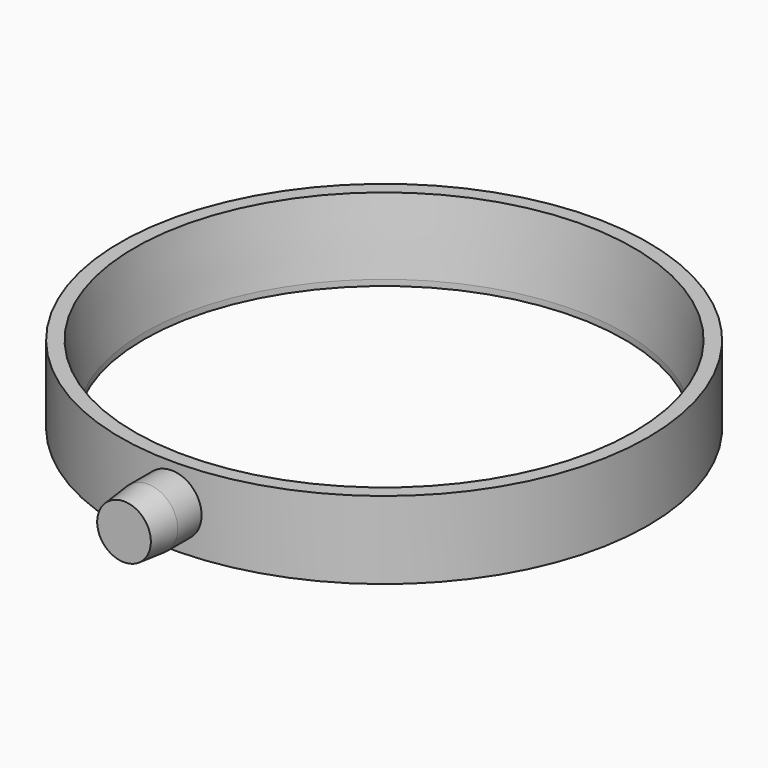
from build123d import *

# Parameters (mm, degrees)
F0_R     = 44.25
F0_R_2   = 40.25
F1_DEPTH = 13
F3_R     = 5
F4_DEPTH = 10
F5_SIZE2 = 1.579829971
F5_SIZE  = 12
F6_SIZE2 = 5
F6_SIZE  = 0.5


with BuildPart() as f1:
    # F0 (on Top) → F1 (new body)
    with BuildSketch(Plane.XY):
        Circle(F0_R)
        Circle(F0_R_2, mode=Mode.SUBTRACT)
    extrude(amount=F1_DEPTH)

    # F5
    f5_edges = [f1.edges().sort_by_distance(p)[0] for p in [
        (-40.25, 0, 13),
    ]]
    f5_side = f1.faces().sort_by_distance((-40.25, 0, 6.5))[0]
    chamfer(f5_edges, length=F5_SIZE, length2=F5_SIZE2, reference=f5_side)


with BuildPart() as f4:
    # F3 (on offset) → F4 (new body)
    with BuildSketch(Plane.XZ.offset(44.5)):
        with Locations((0, 6.839911745)):
            Circle(F3_R)
    extrude(amount=F4_DEPTH)

    # F6
    f6_edges = [f4.edges().sort_by_distance(p)[0] for p in [
        (-5, -54.5, 6.839912),
    ]]
    f6_side = f4.faces().sort_by_distance((0, -54.5, 6.839912))[0]
    chamfer(f6_edges, length=F6_SIZE, length2=F6_SIZE2, reference=f6_side)


solid = Compound([f1.part, f4.part])
